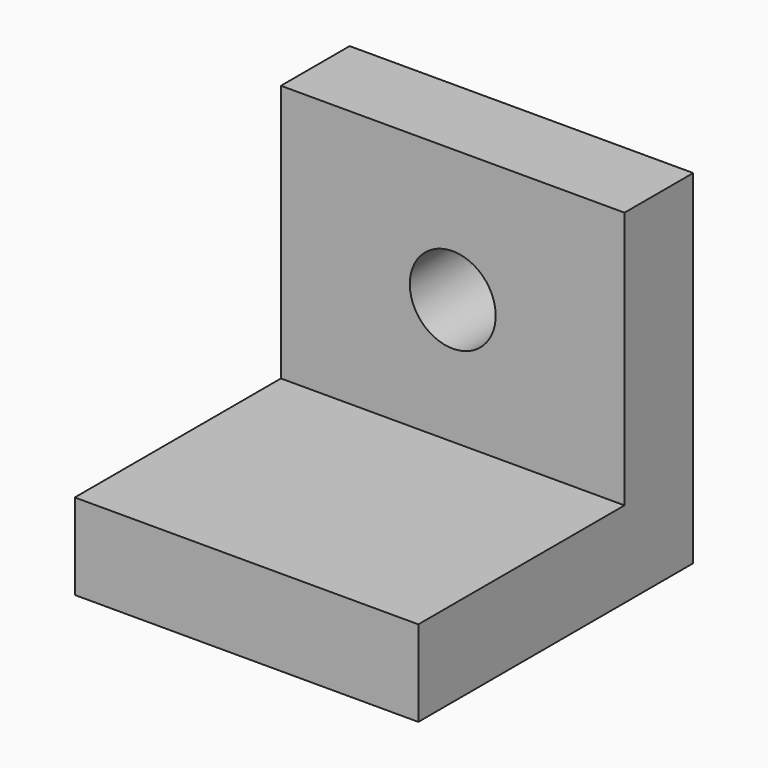
from build123d import *

# Parameters (mm, degrees)
F0_W     = 50.8
F0_H     = 50.8
F1_DEPTH = 12.7
F2_W     = 50.8
F2_H     = 12.7
F3_DEPTH = 38.1
F5_D     = 12.7
F5_DEPTH = 50.8


with BuildPart() as f1:
    # F0 (on Top) → F1 (new body)
    with BuildSketch(Plane.XY):
        with Locations((25.4, 25.4)):
            Rectangle(F0_W, F0_H)
    extrude(amount=F1_DEPTH)

    # F2 (on face) → F3 (join)
    with BuildSketch(Plane.XY.offset(12.7)):
        with Locations((25.4, 44.45)):
            Rectangle(F2_W, F2_H)
    extrude(amount=F3_DEPTH)

    # F5
    with Locations(Plane.XZ.offset(-38.1)):
        with Locations((25.406244, 31.186842)):
            Hole(F5_D / 2, depth=F5_DEPTH)


solid = f1.part
